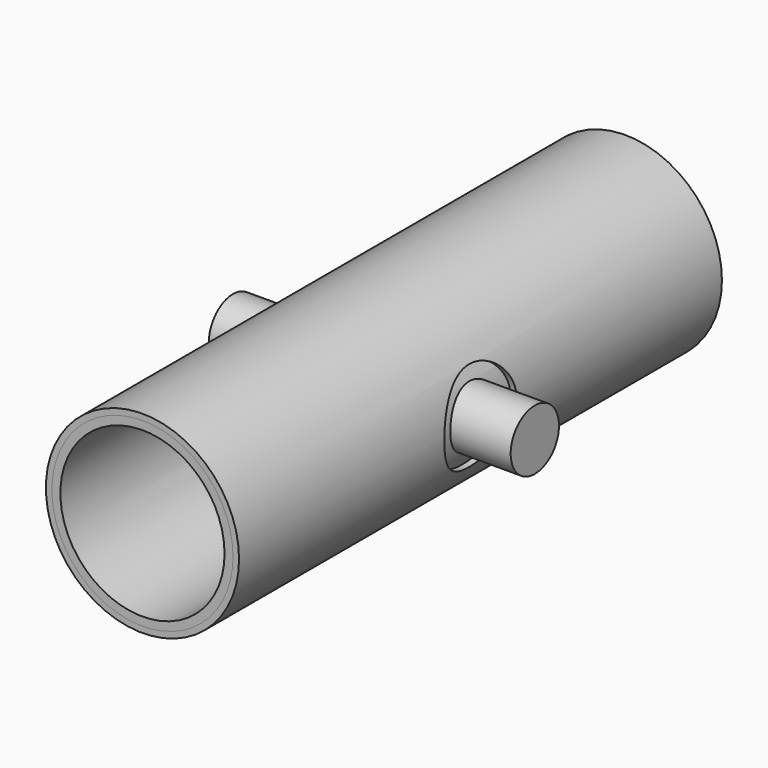
from build123d import *

# Parameters (mm, degrees)
F0_R          = 7.5
F0_R_2        = 6.8
F1_DEPTH      = 25
F0_R_3        = 8
F2_DEPTH      = 25
F3_R          = 2.5
F4_DEPTH      = 8.001
F4_DEPTH_BACK = 8.001
F5_R          = 3.75
F6_DEPTH      = 8.0010001
F6_DEPTH_BACK = 8.0010001
F7_DEPTH      = 12.5
F8_DEPTH      = 25.0010001
F8_DEPTH_BACK = 25.0010001


with BuildPart() as f1:
    # F0 (on Front) → F1 (new body, symmetric)
    with BuildSketch(Plane.XZ):
        Circle(F0_R)
        Circle(F0_R_2, mode=Mode.SUBTRACT)
    extrude(amount=F1_DEPTH, both=True)


with BuildPart() as f2:
    # F0 (on Front) → F2 (new body, symmetric)
    with BuildSketch(Plane.XZ):
        Circle(F0_R_3)
        Circle(F0_R, mode=Mode.SUBTRACT)
    extrude(amount=F2_DEPTH, both=True)


with BuildPart() as f4_tool:
    # F3 (on Right) → F4 (new body, two sides)
    with BuildSketch(Plane.YZ) as f4_sk:
        Circle(F3_R)
    extrude(amount=-F4_DEPTH)
    extrude(f4_sk.sketch, amount=F4_DEPTH_BACK)


with BuildPart() as f1_1:
    add(f1.part)

    # F4: cut by f4_tool
    add(f4_tool.part, mode=Mode.SUBTRACT)


with BuildPart() as f2_1:
    add(f2.part)

    # F4: cut by f4_tool
    add(f4_tool.part, mode=Mode.SUBTRACT)

    # F5 (on Right) → F6 (cut, two sides)
    with BuildSketch(Plane.YZ) as f6_sk:
        Circle(F5_R)
    extrude(amount=-F6_DEPTH, mode=Mode.SUBTRACT)
    extrude(f6_sk.sketch, amount=F6_DEPTH_BACK, mode=Mode.SUBTRACT)


with BuildPart() as f7:
    # F3 (on Right) → F7 (new body, symmetric)
    with BuildSketch(Plane.YZ):
        Circle(F3_R)
    extrude(amount=F7_DEPTH, both=True)

    # F0 (on Front) → F8 (cut, two sides)
    with BuildSketch(Plane.XZ) as f8_sk:
        Circle(F0_R_2)
    extrude(amount=-F8_DEPTH, mode=Mode.SUBTRACT)
    extrude(f8_sk.sketch, amount=F8_DEPTH_BACK, mode=Mode.SUBTRACT)


solid = Compound([f1_1.part, f2_1.part, f7.part])
